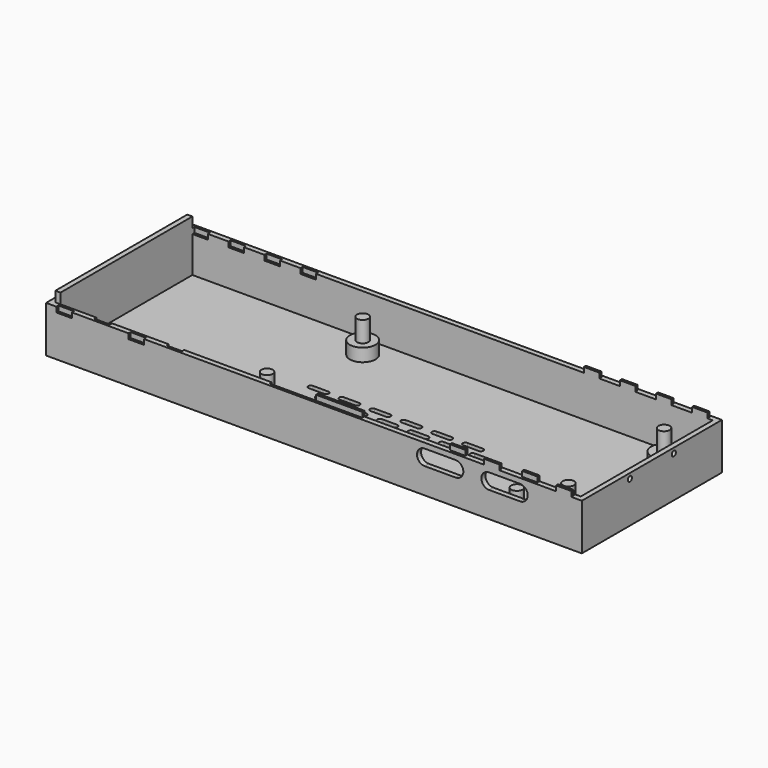
from build123d import *

# Parameters (mm, degrees)
SKETCH_W            = 104
SKETCH_H            = 34
PAD_DEPTH           = 9
SKETCH001_W         = 100
SKETCH001_H         = 32
POCKET_DEPTH        = 8
SKETCH002_R         = 2.5
SKETCH002_R_2       = 1.1
PAD001_DEPTH        = 2.5
SKETCH003_R         = 1.1
PAD002_DEPTH        = 4
SKETCH004_R         = 1.1
PAD003_DEPTH        = 4
SKETCH005_R         = 1.1
PAD004_DEPTH        = 4
SKETCH006_R         = 1.1
PAD005_DEPTH        = 4
POCKET001_DEPTH     = 1
SKETCH008_W         = 1
SKETCH008_H         = 32
PAD006_DEPTH        = 2
SKETCH009_W         = 1
SKETCH009_H         = 32
POCKET002_DEPTH     = 2
POCKET003_DEPTH     = 1
LINEARPATTERN_COUNT = 6
LINEARPATTERN_PITCH = 6
SKETCH011_W         = 3
SKETCH011_H         = 0.5
POCKET004_DEPTH     = 1
SKETCH012_W         = 3
SKETCH012_H         = 0.5
PAD007_DEPTH        = 1
SKETCH013_W         = 9
SKETCH013_H         = 0.5
POCKET005_DEPTH     = 1
SKETCH014_W         = 9
SKETCH014_H         = 0.5
PAD008_DEPTH        = 1
SKETCH015_R         = 0.5
POCKET006_DEPTH     = 1
SKETCH016_R         = 0.333333
PAD009_DEPTH        = 0.5
SKETCH017_W         = 3
SKETCH017_H         = 0.5
PAD010_DEPTH        = 1
SKETCH018_W         = 3
SKETCH018_H         = 0.5
POCKET007_DEPTH     = 1


with BuildPart() as part:
    # Sketch → Pad (new body)
    with BuildSketch(Plane.XY):
        with Locations((-52, 17)):
            Rectangle(SKETCH_W, SKETCH_H)
    extrude(amount=PAD_DEPTH)

    # Sketch001 (on Face6 of Pad) → Pocket (cut)
    with BuildSketch(Plane.XY.offset(9)):
        with Locations((-52, 17)):
            Rectangle(SKETCH001_W, SKETCH001_H)
    extrude(amount=-POCKET_DEPTH, mode=Mode.SUBTRACT)

    # Sketch002 (on Face11 of Pocket) → Pad001 (join)
    with BuildSketch(Plane.XY.offset(1)):
        with Locations((-65.5, 5.5)):
            Circle(SKETCH002_R)
        with Locations((-65.5, 28.7)):
            Circle(SKETCH002_R)
        with Locations((-7, 28.7)):
            Circle(SKETCH002_R)
        with Locations((-7, 5.5)):
            Circle(SKETCH002_R)
        with Locations((-17, 5.5)):
            Circle(SKETCH002_R_2)
    extrude(amount=PAD001_DEPTH)

    # Sketch003 (on Face17 of Pad001) → Pad002 (join)
    with BuildSketch(Plane.XY.offset(3.5)):
        with Locations((-7, 5.5)):
            Circle(SKETCH003_R)
    extrude(amount=PAD002_DEPTH)

    # Sketch004 (on Face20 of Pad002) → Pad003 (join)
    with BuildSketch(Plane.XY.offset(3.5)):
        with Locations((-7, 28.7)):
            Circle(SKETCH004_R)
    extrude(amount=PAD003_DEPTH)

    # Sketch005 (on Face21 of Pad003) → Pad004 (join)
    with BuildSketch(Plane.XY.offset(3.5)):
        with Locations((-65.5, 28.7)):
            Circle(SKETCH005_R)
    extrude(amount=PAD004_DEPTH)

    # Sketch006 (on Face19 of Pad004) → Pad005 (join)
    with BuildSketch(Plane.XY.offset(3.5)):
        with Locations((-65.5, 5.5)):
            Circle(SKETCH006_R)
    extrude(amount=PAD005_DEPTH)

    # Sketch007 (on Face6 of Pad005) → Pocket001 (cut)
    with BuildSketch(Plane.XZ):
        with BuildLine():
            ThreePointArc((-18, 8), (-19.5, 6.5), (-18, 5))
            Line((-18, 5), (-12, 5))
            ThreePointArc((-12, 5), (-10.5, 6.5), (-12, 8))
            Line((-18, 8), (-12, 8))
        make_face()
        with BuildLine():
            ThreePointArc((-30.5, 8), (-32, 6.5), (-30.5, 5))
            Line((-30.5, 5), (-24.5, 5))
            ThreePointArc((-24.5, 5), (-23, 6.5), (-24.5, 8))
            Line((-30.5, 8), (-24.5, 8))
        make_face()
    extrude(amount=-POCKET001_DEPTH, mode=Mode.SUBTRACT)

    # Sketch008 (on Face5 of Pocket001) → Pad006 (join)
    with BuildSketch(Plane.XY.offset(9)):
        with Locations((-102.5, 17)):
            Rectangle(SKETCH008_W, SKETCH008_H)
    extrude(amount=PAD006_DEPTH)

    # Sketch009 (on Face5 of Pad006) → Pocket002 (cut)
    with BuildSketch(Plane.XY.offset(9)):
        with Locations((-1.5, 17)):
            Rectangle(SKETCH009_W, SKETCH009_H)
    extrude(amount=-POCKET002_DEPTH, mode=Mode.SUBTRACT)

    # Sketch010 (on Face25 of Pocket002) → Pocket003 (cut)
    with BuildSketch(Plane.XY.offset(1)):
        with BuildLine():
            ThreePointArc((-65, 12), (-65.5, 11.5), (-65, 11))
            Line((-65, 11), (-62, 11))
            ThreePointArc((-62, 11), (-61.5, 11.5), (-62, 12))
            Line((-65, 12), (-62, 12))
        make_face()
        with BuildLine():
            ThreePointArc((-62, 14), (-62.5, 13.5), (-62, 13))
            Line((-62, 13), (-59, 13))
            ThreePointArc((-59, 13), (-58.5, 13.5), (-59, 14))
            Line((-62, 14), (-59, 14))
        make_face()
        with BuildLine():
            ThreePointArc((-65, 16), (-65.5, 15.5), (-65, 15))
            Line((-65, 15), (-62, 15))
            ThreePointArc((-62, 15), (-61.5, 15.5), (-62, 16))
            Line((-65, 16), (-62, 16))
        make_face()
    pocket003 = extrude(amount=-POCKET003_DEPTH, mode=Mode.SUBTRACT)

    # LinearPattern: Pocket003 ×6
    with Locations(*[(i * LINEARPATTERN_PITCH, 0, 0) for i in range(1, LINEARPATTERN_COUNT)]):
        add(pocket003, mode=Mode.SUBTRACT)

    # Sketch011 (on Face5 of LinearPattern) → Pocket004 (cut)
    with BuildSketch(Plane.XY.offset(9)):
        with Locations((-100.5, 33.25)):
            Rectangle(SKETCH011_W, SKETCH011_H)
        with Locations((-93.5, 33.25)):
            Rectangle(SKETCH011_W, SKETCH011_H)
        with Locations((-86.5, 33.25)):
            Rectangle(SKETCH011_W, SKETCH011_H)
        with Locations((-79.5, 33.25)):
            Rectangle(SKETCH011_W, SKETCH011_H)
    extrude(amount=-POCKET004_DEPTH, mode=Mode.SUBTRACT)

    # Sketch012 (on Face5 of Pocket004) → Pad007 (join)
    with BuildSketch(Plane.XY.offset(9)):
        with Locations((-3.5, 33.25)):
            Rectangle(SKETCH012_W, SKETCH012_H)
        with Locations((-10.5, 33.25)):
            Rectangle(SKETCH012_W, SKETCH012_H)
        with Locations((-17.5, 33.25)):
            Rectangle(SKETCH012_W, SKETCH012_H)
        with Locations((-24.5, 33.25)):
            Rectangle(SKETCH012_W, SKETCH012_H)
    extrude(amount=PAD007_DEPTH)

    # Sketch013 (on Face5 of Pad007) → Pocket005 (cut)
    with BuildSketch(Plane.XY.offset(9)):
        with Locations((-56.5, 0.75)):
            Rectangle(SKETCH013_W, SKETCH013_H)
    extrude(amount=-POCKET005_DEPTH, mode=Mode.SUBTRACT)

    # Sketch014 (on Face5 of Pocket005) → Pad008 (join)
    with BuildSketch(Plane.XY.offset(9)):
        with Locations((-47.5, 0.75)):
            Rectangle(SKETCH014_W, SKETCH014_H)
    extrude(amount=PAD008_DEPTH)

    # Sketch015 (on Face105 of Pad008) → Pocket006 (cut)
    with BuildSketch(Plane(origin=(-1, 0, 0), x_dir=(0, -1, 0), z_dir=(-1, 0, 0))):
        with Locations((-11.666667, 8)):
            Circle(SKETCH015_R)
        with Locations((-22.333333, 8)):
            Circle(SKETCH015_R)
    extrude(amount=-POCKET006_DEPTH, mode=Mode.SUBTRACT)

    # Sketch016 → Pad009 (join)
    with BuildSketch(Plane(origin=(-103, 0, 0), x_dir=(0, -1, 0), z_dir=(-1, 0, 0))):
        with Locations((-22.333333, 10)):
            Circle(SKETCH016_R)
        with Locations((-11.666667, 10)):
            Circle(SKETCH016_R)
    extrude(amount=PAD009_DEPTH)

    # Sketch017 (on Face5 of Pad009) → Pad010 (join)
    with BuildSketch(Plane.XY.offset(9)):
        with Locations((-3.5, 0.25)):
            Rectangle(SKETCH017_W, SKETCH017_H)
        with Locations((-10.5, 0.75)):
            Rectangle(SKETCH017_W, SKETCH017_H)
        with Locations((-17.5, 0.25)):
            Rectangle(SKETCH017_W, SKETCH017_H)
        with Locations((-24.5, 0.75)):
            Rectangle(SKETCH017_W, SKETCH017_H)
    extrude(amount=PAD010_DEPTH)

    # Sketch018 (on Face5 of Pad010) → Pocket007 (cut)
    with BuildSketch(Plane.XY.offset(9)):
        with Locations((-100.5, 0.25)):
            Rectangle(SKETCH018_W, SKETCH018_H)
        with Locations((-93.5, 0.75)):
            Rectangle(SKETCH018_W, SKETCH018_H)
        with Locations((-86.5, 0.25)):
            Rectangle(SKETCH018_W, SKETCH018_H)
        with Locations((-79.5, 0.75)):
            Rectangle(SKETCH018_W, SKETCH018_H)
    extrude(amount=-POCKET007_DEPTH, mode=Mode.SUBTRACT)


solid = part.part
